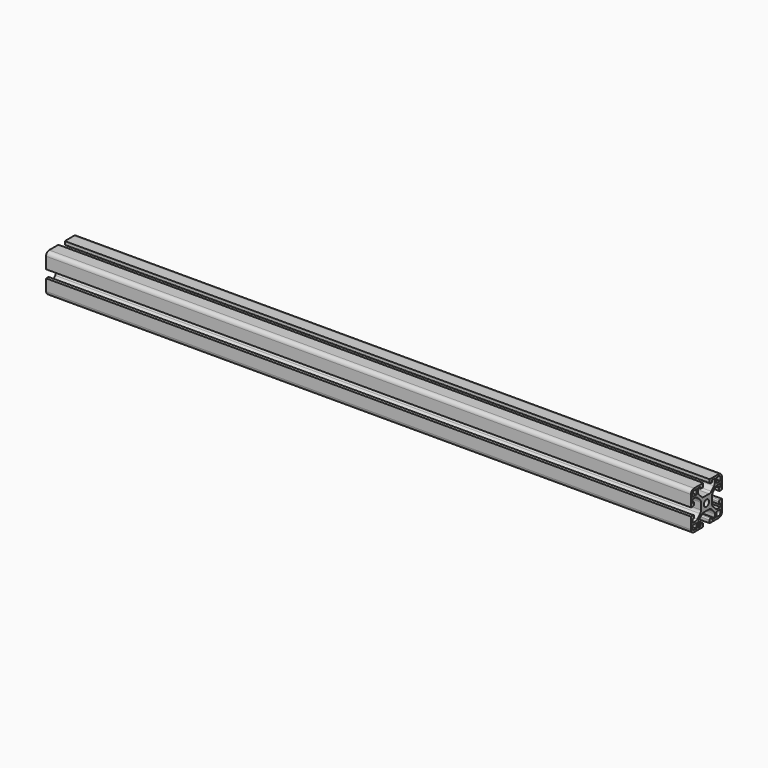
from build123d import *

# Parameters (mm, degrees)
F0_R     = 2.5
F1_DEPTH = 500


with BuildPart() as f1:
    # F0 (on Right) → F1 (new body)
    with BuildSketch(Plane.YZ):
        with BuildLine():
            Line((-3.1, 15), (-12, 15))
            ThreePointArc((-12, 15), (-14.12132, 14.12132), (-15, 12))
            Line((-15, 12), (-15, 3.1))
            Line((-15, 3.1), (-12.8, 3.1))
            ThreePointArc((-12.8, 3.1), (-12.234315, 3.334315), (-12, 3.9))
            Line((-12, 3.9), (-12, 5.6))
            Line((-12, 5.6), (-13.5, 5.6))
            Line((-13.5, 5.6), (-13.5, 8.15))
            Line((-13.5, 8.15), (-10.805, 8.15))
            ThreePointArc((-10.805, 8.15), (-9.65695, 7.921639), (-8.68368, 7.27132))
            Line((-8.68368, 7.27132), (-6.12868, 4.71632))
            ThreePointArc((-6.12868, 4.71632), (-5.478361, 3.74305), (-5.25, 2.595))
            Line((-5.25, 2.595), (-5.25, -2.595))
            ThreePointArc((-5.25, -2.595), (-5.478361, -3.74305), (-6.12868, -4.71632))
            Line((-6.12868, -4.71632), (-8.68368, -7.27132))
            ThreePointArc((-8.68368, -7.27132), (-9.65695, -7.921639), (-10.805, -8.15))
            Line((-10.805, -8.15), (-13.5, -8.15))
            Line((-13.5, -8.15), (-13.5, -5.6))
            Line((-13.5, -5.6), (-12, -5.6))
            Line((-12, -5.6), (-12, -3.9))
            ThreePointArc((-12, -3.9), (-12.234315, -3.334315), (-12.8, -3.1))
            Line((-12.8, -3.1), (-15, -3.1))
            Line((-15, -3.1), (-15, -12))
            ThreePointArc((-15, -12), (-14.12132, -14.12132), (-12, -15))
            Line((-12, -15), (-3.1, -15))
            Line((-3.1, -15), (-3.1, -12.8))
            ThreePointArc((-3.1, -12.8), (-3.334315, -12.234315), (-3.9, -12))
            Line((-3.9, -12), (-5.6, -12))
            Line((-5.6, -12), (-5.6, -13.5))
            Line((-5.6, -13.5), (-8.15, -13.5))
            Line((-8.15, -13.5), (-8.15, -10.805))
            ThreePointArc((-8.15, -10.805), (-7.921639, -9.65695), (-7.27132, -8.68368))
            Line((-7.27132, -8.68368), (-4.71632, -6.12868))
            ThreePointArc((-4.71632, -6.12868), (-3.74305, -5.478361), (-2.595, -5.25))
            Line((-2.595, -5.25), (2.595, -5.25))
            ThreePointArc((2.595, -5.25), (3.74305, -5.478361), (4.71632, -6.12868))
            Line((4.71632, -6.12868), (7.27132, -8.68368))
            ThreePointArc((7.27132, -8.68368), (7.921639, -9.65695), (8.15, -10.805))
            Line((8.15, -10.805), (8.15, -13.5))
            Line((8.15, -13.5), (5.6, -13.5))
            Line((5.6, -13.5), (5.6, -12))
            Line((5.6, -12), (3.9, -12))
            ThreePointArc((3.9, -12), (3.334315, -12.234315), (3.1, -12.8))
            Line((3.1, -12.8), (3.1, -15))
            Line((3.1, -15), (12, -15))
            ThreePointArc((12, -15), (14.12132, -14.12132), (15, -12))
            Line((15, -12), (15, -3.1))
            Line((15, -3.1), (12.8, -3.1))
            ThreePointArc((12.8, -3.1), (12.234315, -3.334315), (12, -3.9))
            Line((12, -3.9), (12, -5.6))
            Line((12, -5.6), (13.5, -5.6))
            Line((13.5, -5.6), (13.5, -8.15))
            Line((13.5, -8.15), (10.805, -8.15))
            ThreePointArc((10.805, -8.15), (9.65695, -7.921639), (8.68368, -7.27132))
            Line((8.68368, -7.27132), (6.12868, -4.71632))
            ThreePointArc((6.12868, -4.71632), (5.478361, -3.74305), (5.25, -2.595))
            Line((5.25, -2.595), (5.25, 2.595))
            ThreePointArc((5.25, 2.595), (5.478361, 3.74305), (6.12868, 4.71632))
            Line((6.12868, 4.71632), (8.68368, 7.27132))
            ThreePointArc((8.68368, 7.27132), (9.65695, 7.921639), (10.805, 8.15))
            Line((10.805, 8.15), (13.5, 8.15))
            Line((13.5, 8.15), (13.5, 5.6))
            Line((13.5, 5.6), (12, 5.6))
            Line((12, 5.6), (12, 3.9))
            ThreePointArc((12, 3.9), (12.234315, 3.334315), (12.8, 3.1))
            Line((12.8, 3.1), (15, 3.1))
            Line((15, 3.1), (15, 12))
            ThreePointArc((15, 12), (14.12132, 14.12132), (12, 15))
            Line((12, 15), (3.1, 15))
            Line((3.1, 15), (3.1, 12.8))
            ThreePointArc((3.1, 12.8), (3.334315, 12.234315), (3.9, 12))
            Line((3.9, 12), (5.6, 12))
            Line((5.6, 12), (5.6, 13.5))
            Line((5.6, 13.5), (8.15, 13.5))
            Line((8.15, 13.5), (8.15, 10.805))
            ThreePointArc((8.15, 10.805), (7.921639, 9.65695), (7.27132, 8.68368))
            Line((7.27132, 8.68368), (4.71632, 6.12868))
            ThreePointArc((4.71632, 6.12868), (3.74305, 5.478361), (2.595, 5.25))
            Line((2.595, 5.25), (-2.595, 5.25))
            ThreePointArc((-2.595, 5.25), (-3.74305, 5.478361), (-4.71632, 6.12868))
            Line((-4.71632, 6.12868), (-7.27132, 8.68368))
            ThreePointArc((-7.27132, 8.68368), (-7.921639, 9.65695), (-8.15, 10.805))
            Line((-8.15, 10.805), (-8.15, 13.5))
            Line((-8.15, 13.5), (-5.6, 13.5))
            Line((-5.6, 13.5), (-5.6, 12))
            Line((-5.6, 12), (-3.9, 12))
            ThreePointArc((-3.9, 12), (-3.334315, 12.234315), (-3.1, 12.8))
            Line((-3.1, 12.8), (-3.1, 15))
        make_face()
        with BuildLine():
            ThreePointArc((-12, -13.5), (-13.06066, -13.06066), (-13.5, -12))
            Line((-13.5, -12), (-13.5, -9.65))
            Line((-13.5, -9.65), (-9.65, -9.65))
            Line((-9.65, -9.65), (-9.65, -13.5))
            Line((-9.65, -13.5), (-12, -13.5))
        make_face(mode=Mode.SUBTRACT)
        with BuildLine():
            ThreePointArc((13.5, -12), (13.06066, -13.06066), (12, -13.5))
            Line((12, -13.5), (9.65, -13.5))
            Line((9.65, -13.5), (9.65, -9.65))
            Line((9.65, -9.65), (13.5, -9.65))
            Line((13.5, -9.65), (13.5, -12))
        make_face(mode=Mode.SUBTRACT)
        Circle(F0_R, mode=Mode.SUBTRACT)
        with BuildLine():
            ThreePointArc((-13.5, 12), (-13.06066, 13.06066), (-12, 13.5))
            Line((-12, 13.5), (-9.65, 13.5))
            Line((-9.65, 13.5), (-9.65, 9.65))
            Line((-9.65, 9.65), (-13.5, 9.65))
            Line((-13.5, 9.65), (-13.5, 12))
        make_face(mode=Mode.SUBTRACT)
        with BuildLine():
            ThreePointArc((12, 13.5), (13.06066, 13.06066), (13.5, 12))
            Line((13.5, 12), (13.5, 9.65))
            Line((13.5, 9.65), (9.65, 9.65))
            Line((9.65, 9.65), (9.65, 13.5))
            Line((9.65, 13.5), (12, 13.5))
        make_face(mode=Mode.SUBTRACT)
    extrude(amount=F1_DEPTH)


solid = f1.part
